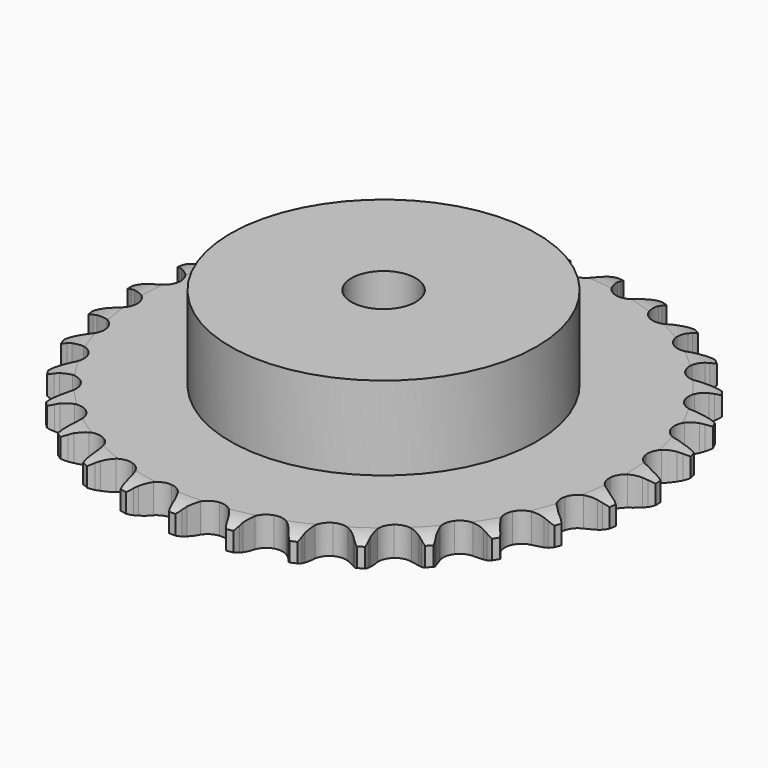
from build123d import *

# Parameters (mm, degrees)
PAD_DEPTH         = 9.1
SKETCH001_R       = 47.5
PAD001_DEPTH      = 35
SKETCH002_R       = 10
POCKET_DEPTH      = 0.001
POCKET_DEPTH_BACK = 35.001


with BuildPart() as part:
    # Sprocket → Pad (new body)
    with BuildSketch(Plane.XY):
        with BuildLine():
            ThreePointArc((-8.441553, 83.012563), (-7.253766, 81.595871), (-6.410038, 79.950886))
            Line((-6.410038, 79.950886), (-5.914495, 78.642367))
            ThreePointArc((-5.914495, 78.642367), (-5.128769, 76.941144), (-4.111265, 75.367546))
            ThreePointArc((-4.111265, 75.367546), (-2.29761, 73.856552), (0, 73.314854))
            ThreePointArc((0, 73.314854), (2.29761, 73.856552), (4.111265, 75.367546))
            ThreePointArc((4.111265, 75.367546), (5.128769, 76.941144), (5.914495, 78.642367))
            Line((5.914495, 78.642367), (6.410038, 79.950886))
            ThreePointArc((6.410038, 79.950886), (7.253766, 81.595871), (8.441553, 83.012563))
            ThreePointArc((8.441553, 83.012563), (9.319847, 81.385771), (9.815171, 79.604618))
            Line((9.815171, 79.604618), (10.037167, 78.223133))
            ThreePointArc((10.037167, 78.223133), (10.464356, 76.398568), (11.144269, 74.652359))
            ThreePointArc((11.144269, 74.652359), (12.616637, 72.807209), (14.758172, 71.814094))
            ThreePointArc((14.758172, 71.814094), (17.117792, 71.882198), (19.198482, 72.997176))
            Line((19.198482, 72.997176), (21.624017, 75.841974))
            ThreePointArc((21.624017, 75.841974), (21.982831, 76.44284), (22.372819, 77.023955))
            ThreePointArc((22.372819, 77.023955), (23.530409, 78.465426), (24.97906, 79.614019))
            ThreePointArc((24.97906, 79.614019), (25.511905, 77.843728), (25.638545, 75.999327))
            Line((25.638545, 75.999327), (25.577906, 74.601434))
            ThreePointArc((25.577906, 74.601434), (25.629069, 72.728225), (25.943554, 70.880896))
            ThreePointArc((25.943554, 70.880896), (27.014357, 68.777131), (28.912142, 67.373258))
            ThreePointArc((28.912142, 67.373258), (31.23717, 66.964979), (33.499712, 67.638294))
            Line((33.499712, 67.638294), (36.44825, 69.936602))
            ThreePointArc((36.44825, 69.936602), (36.920671, 70.452939), (37.419655, 70.943655))
            ThreePointArc((37.419655, 70.943655), (38.843714, 72.122598), (40.493921, 72.956068))
            ThreePointArc((40.493921, 72.956068), (40.659502, 71.114754), (40.412275, 69.282615))
            Line((40.412275, 69.282615), (40.071483, 67.925543))
            ThreePointArc((40.071483, 67.925543), (39.744524, 66.080381), (39.680708, 64.207561))
            ThreePointArc((39.680708, 64.207561), (40.306106, 61.931309), (41.882446, 60.174152))
            ThreePointArc((41.882446, 60.174152), (44.077695, 59.306206), (46.429459, 59.510291))
            Line((46.429459, 59.510291), (49.780286, 61.168017))
            ThreePointArc((49.780286, 61.168017), (50.346975, 61.578687), (50.934525, 61.958913))
            ThreePointArc((50.934525, 61.958913), (52.566754, 62.827062), (54.350956, 63.311286))
            ThreePointArc((54.350956, 63.311286), (54.142494, 61.474333), (53.531521, 59.729465))
            Line((53.531521, 59.729465), (52.924529, 58.468773))
            ThreePointArc((52.924529, 58.468773), (52.232834, 56.727198), (51.793328, 54.905561))
            ThreePointArc((51.793328, 54.905561), (51.947719, 52.550012), (53.138077, 50.511509))
            ThreePointArc((53.138077, 50.511509), (55.113673, 49.21943), (57.458379, 48.945931))
            Line((57.458379, 48.945931), (61.074312, 49.895206))
            ThreePointArc((61.074312, 49.895206), (61.712068, 50.183396), (62.36413, 50.437566))
            ThreePointArc((62.36413, 50.437566), (64.137704, 50.959379), (65.982857, 51.074533))
            ThreePointArc((65.982857, 51.074533), (65.408886, 49.317146), (64.459181, 47.730983))
            Line((64.459181, 47.730983), (63.610838, 46.618284))
            ThreePointArc((63.610838, 46.618284), (62.582726, 45.051596), (61.785524, 43.35572))
            ThreePointArc((61.785524, 43.35572), (61.462586, 41.017311), (62.21823, 38.780919))
            ThreePointArc((62.21823, 38.780919), (63.893291, 37.117605), (66.134946, 36.377718))
            Line((66.134946, 36.377718), (69.867949, 36.579679))
            ThreePointArc((69.867949, 36.579679), (70.550662, 36.733591), (71.24054, 36.851299))
            ThreePointArc((71.24054, 36.851299), (73.082849, 37.005412), (74.913412, 36.746783))
            ThreePointArc((74.913412, 36.746783), (73.997431, 35.140909), (72.747874, 33.77839))
            Line((72.747874, 33.77839), (71.692912, 32.859238))
            ThreePointArc((71.692912, 32.859238), (70.370474, 31.531577), (69.248213, 30.030892))
            ThreePointArc((69.248213, 30.030892), (68.461167, 27.805357), (68.75116, 25.462634))
            ThreePointArc((68.75116, 25.462634), (70.057111, 23.49618), (72.10394, 22.320197))
            Line((72.10394, 22.320197), (75.801183, 21.766577))
            ThreePointArc((75.801183, 21.766577), (76.500903, 21.779908), (77.200354, 21.756336))
            ThreePointArc((77.200354, 21.756336), (79.035973, 21.53644), (80.777003, 20.914615))
            ThreePointArc((80.777003, 20.914615), (79.556512, 19.525999), (78.05826, 18.442905))
            Line((78.05826, 18.442905), (76.83987, 17.75493))
            ThreePointArc((76.83987, 17.75493), (75.277246, 16.720652), (73.875872, 15.476595))
            ThreePointArc((73.875872, 15.476595), (72.65694, 13.455048), (72.469411, 11.101905))
            ThreePointArc((72.469411, 11.101905), (73.352784, 8.912819), (75.120991, 7.348885))
            Line((75.120991, 7.348885), (78.631108, 6.062348))
            ThreePointArc((78.631108, 6.062348), (79.319189, 5.934554), (79.999576, 5.770665))
            ThreePointArc((79.999576, 5.770665), (81.753356, 5.185764), (83.333575, 4.226201))
            ThreePointArc((83.333575, 4.226201), (81.858541, 3.111693), (80.172933, 2.352365))
            Line((80.172933, 2.352365), (78.840995, 1.923734))
            ThreePointArc((78.840995, 1.923734), (77.102159, 1.225181), (75.479044, 0.288684))
            ThreePointArc((75.479044, 0.288684), (73.878129, -1.446112), (73.220755, -3.713336))
            ThreePointArc((73.220755, -3.713336), (73.645385, -6.035434), (75.06258, -7.923291))
            Line((75.06258, -7.923291), (78.241866, -9.890075))
            ThreePointArc((78.241866, -9.890075), (78.890137, -10.153762), (79.523606, -10.451257))
            ThreePointArc((79.523606, -10.451257), (81.123746, -11.377219), (82.478459, -12.635235))
            ThreePointArc((82.478459, -12.635235), (80.809271, -13.430007), (79.005316, -13.834481))
            Line((79.005316, -13.834481), (77.61436, -13.986221))
            ThreePointArc((77.61436, -13.986221), (75.7705, -14.320449), (73.992095, -14.911045))
            ThreePointArc((73.992095, -14.911045), (72.07474, -16.288068), (70.974432, -18.376554))
            ThreePointArc((70.974432, -18.376554), (70.922936, -20.736595), (71.931098, -22.871087))
            Line((71.931098, -22.871087), (74.649393, -25.437596))
            ThreePointArc((74.649393, -25.437596), (75.231314, -25.826382), (75.791931, -26.245303))
            ThreePointArc((75.791931, -26.245303), (77.172921, -27.474417), (78.246666, -28.979383))
            ThreePointArc((78.246666, -28.979383), (76.45166, -29.42188), (74.603212, -29.454941))
            Line((74.603212, -29.454941), (73.210183, -29.323578))
            ThreePointArc((73.210183, -29.323578), (71.336788, -29.279798), (69.475902, -29.500314))
            ThreePointArc((69.475902, -29.500314), (67.320601, -30.463189), (65.822409, -32.287433))
            ThreePointArc((65.822409, -32.287433), (65.296894, -34.588798), (65.854748, -36.882538))
            Line((65.854748, -36.882538), (68.000765, -39.943699))
            ThreePointArc((68.000765, -39.943699), (68.492512, -40.441667), (68.957325, -40.964864))
            ThreePointArc((68.957325, -40.964864), (70.062627, -42.446808), (70.811446, -44.137111))
            ThreePointArc((70.811446, -44.137111), (68.964109, -44.209219), (67.146843, -43.869513))
            Line((67.146843, -43.869513), (65.808774, -43.460424))
            ThreePointArc((65.808774, -43.460424), (63.98254, -43.040429), (62.115356, -42.881837))
            ThreePointArc((62.115356, -42.881837), (59.81035, -43.391143), (57.975608, -44.876461))
            ThreePointArc((57.975608, -44.876461), (56.997589, -47.024931), (57.082297, -49.384014))
            Line((57.082297, -49.384014), (58.568178, -52.814503))
            ThreePointArc((58.568178, -52.814503), (58.949619, -53.401265), (59.299598, -54.007318))
            ThreePointArc((59.299598, -54.007318), (60.083962, -55.681423), (60.477196, -57.487861))
            ThreePointArc((60.477196, -57.487861), (58.653159, -57.186626), (56.941475, -56.488062))
            Line((56.941475, -56.488062), (55.713145, -55.817995))
            ThreePointArc((55.713145, -55.817995), (54.008839, -55.038979), (52.211801, -54.507773))
            ThreePointArc((52.211801, -54.507773), (49.851455, -54.542659), (47.755278, -55.628241))
            ThreePointArc((47.755278, -55.628241), (46.364795, -57.535858), (45.97289, -59.863702))
            Line((45.97289, -59.863702), (46.737803, -63.523074))
            ThreePointArc((46.737803, -63.523074), (46.993321, -64.174609), (47.214139, -64.838706))
            ThreePointArc((47.214139, -64.838706), (47.645451, -66.636434), (47.667003, -68.485052))
            ThreePointArc((47.667003, -68.485052), (45.940942, -67.822807), (44.404917, -66.793982))
            Line((44.404917, -66.793982), (43.336614, -65.890371))
            ThreePointArc((43.336614, -65.890371), (41.82401, -64.784228), (40.170688, -63.902154))
            ThreePointArc((40.170688, -63.902154), (37.851637, -63.461192), (35.579842, -64.102594))
            ThreePointArc((35.579842, -64.102594), (33.833822, -65.691261), (32.981347, -67.892563))
            Line((32.981347, -67.892563), (32.993976, -71.631004))
            ThreePointArc((32.993976, -71.631004), (33.113111, -72.320637), (33.195727, -73.015591))
            ThreePointArc((33.195727, -73.015591), (33.256331, -74.863341), (32.905317, -76.678456))
            ThreePointArc((32.905317, -76.678456), (31.347898, -75.682314), (30.050416, -74.36535))
            Line((30.050416, -74.36535), (29.185877, -73.265188))
            ThreePointArc((29.185877, -73.265188), (27.926901, -71.877202), (26.484983, -70.680373))
            ThreePointArc((26.484983, -70.680373), (24.302168, -69.781616), (21.947764, -69.95258))
            ThreePointArc((21.947764, -69.95258), (19.917688, -71.157255), (18.639545, -73.141895))
            Line((18.639545, -73.141895), (17.899372, -76.806352))
            ThreePointArc((17.899372, -76.806352), (17.877247, -77.505849), (17.818278, -78.203208))
            ThreePointArc((17.818278, -78.203208), (17.505692, -80.025334), (16.796483, -81.732635))
            ThreePointArc((16.796483, -81.732635), (15.471467, -80.443378), (14.465647, -78.892191))
            Line((14.465647, -78.892191), (13.840266, -77.640519))
            ThreePointArc((13.840266, -77.640519), (12.886461, -76.027515), (11.714979, -74.564929))
            ThreePointArc((11.714979, -74.564929), (9.757765, -73.245172), (7.417141, -72.938699))
            ThreePointArc((7.417141, -72.938699), (5.186122, -73.710063), (3.534637, -75.396789))
            Line((3.534637, -75.396789), (2.071966, -78.837238))
            ThreePointArc((2.071966, -78.837238), (1.909486, -79.517963), (1.711347, -80.189177))
            ThreePointArc((1.711347, -80.189177), (1.038368, -81.91108), (0, -83.44067))
            ThreePointArc((0, -83.44067), (-1.038368, -81.91108), (-1.711347, -80.189177))
            Line((-1.711347, -80.189177), (-2.071966, -78.837238))
            ThreePointArc((-2.071966, -78.837238), (-2.681552, -77.065253), (-3.534637, -75.396789))
            ThreePointArc((-3.534637, -75.396789), (-5.186122, -73.710063), (-7.417141, -72.938699))
            ThreePointArc((-7.417141, -72.938699), (-9.757765, -73.245172), (-11.714979, -74.564929))
            Line((-11.714979, -74.564929), (-13.840266, -77.640519))
            ThreePointArc((-13.840266, -77.640519), (-14.13645, -78.274602), (-14.465647, -78.892191))
            ThreePointArc((-14.465647, -78.892191), (-15.471467, -80.443378), (-16.796483, -81.732635))
            ThreePointArc((-16.796483, -81.732635), (-17.505692, -80.025334), (-17.818278, -78.203208))
            Line((-17.818278, -78.203208), (-17.899372, -76.806352))
            ThreePointArc((-17.899372, -76.806352), (-18.139782, -74.94793), (-18.639545, -73.141895))
            ThreePointArc((-18.639545, -73.141895), (-19.917688, -71.157255), (-21.947764, -69.95258))
            ThreePointArc((-21.947764, -69.95258), (-24.302168, -69.781616), (-26.484983, -70.680373))
            Line((-26.484983, -70.680373), (-29.185877, -73.265188))
            ThreePointArc((-29.185877, -73.265188), (-29.603638, -73.82667), (-30.050416, -74.36535))
            ThreePointArc((-30.050416, -74.36535), (-31.347898, -75.682314), (-32.905317, -76.678456))
            ThreePointArc((-32.905317, -76.678456), (-33.256331, -74.863341), (-33.195727, -73.015591))
            Line((-33.195727, -73.015591), (-32.993976, -71.631004))
            ThreePointArc((-32.993976, -71.631004), (-32.855367, -69.76223), (-32.981347, -67.892563))
            ThreePointArc((-32.981347, -67.892563), (-33.833822, -65.691261), (-35.579842, -64.102594))
            ThreePointArc((-35.579842, -64.102594), (-37.851637, -63.461192), (-40.170688, -63.902154))
            Line((-40.170688, -63.902154), (-43.336614, -65.890371))
            ThreePointArc((-43.336614, -65.890371), (-43.858849, -66.356266), (-44.404917, -66.793982))
            ThreePointArc((-44.404917, -66.793982), (-45.940942, -67.822807), (-47.667003, -68.485052))
            ThreePointArc((-47.667003, -68.485052), (-47.645451, -66.636434), (-47.214139, -64.838706))
            Line((-47.214139, -64.838706), (-46.737803, -63.523074))
            ThreePointArc((-46.737803, -63.523074), (-46.225849, -61.720457), (-45.97289, -59.863702))
            ThreePointArc((-45.97289, -59.863702), (-46.364795, -57.535858), (-47.755278, -55.628241))
            ThreePointArc((-47.755278, -55.628241), (-49.851455, -54.542659), (-52.211801, -54.507773))
            Line((-52.211801, -54.507773), (-55.713145, -55.817995))
            ThreePointArc((-55.713145, -55.817995), (-56.318474, -56.169228), (-56.941475, -56.488062))
            ThreePointArc((-56.941475, -56.488062), (-58.653159, -57.186626), (-60.477196, -57.487861))
            ThreePointArc((-60.477196, -57.487861), (-60.083962, -55.681423), (-59.299598, -54.007318))
            Line((-59.299598, -54.007318), (-58.568178, -52.814503))
            ThreePointArc((-58.568178, -52.814503), (-57.70384, -51.15184), (-57.082297, -49.384014))
            ThreePointArc((-57.082297, -49.384014), (-56.997589, -47.024931), (-57.975608, -44.876461))
            ThreePointArc((-57.975608, -44.876461), (-59.81035, -43.391143), (-62.115356, -42.881837))
            Line((-62.115356, -42.881837), (-65.808774, -43.460424))
            ThreePointArc((-65.808774, -43.460424), (-66.472414, -43.682615), (-67.146843, -43.869513))
            ThreePointArc((-67.146843, -43.869513), (-68.964109, -44.209219), (-70.811446, -44.137111))
            ThreePointArc((-70.811446, -44.137111), (-70.062627, -42.446808), (-68.957325, -40.964864))
            Line((-68.957325, -40.964864), (-68.000765, -39.943699))
            ThreePointArc((-68.000765, -39.943699), (-66.819429, -38.489062), (-65.854748, -36.882538))
            ThreePointArc((-65.854748, -36.882538), (-65.296894, -34.588798), (-65.822409, -32.287433))
            ThreePointArc((-65.822409, -32.287433), (-67.320601, -30.463189), (-69.475902, -29.500314))
            Line((-69.475902, -29.500314), (-73.210183, -29.323578))
            ThreePointArc((-73.210183, -29.323578), (-73.904965, -29.407631), (-74.603212, -29.454941))
            ThreePointArc((-74.603212, -29.454941), (-76.45166, -29.42188), (-78.246666, -28.979383))
            ThreePointArc((-78.246666, -28.979383), (-77.172921, -27.474417), (-75.791931, -26.245303))
            Line((-75.791931, -26.245303), (-74.649393, -25.437596))
            ThreePointArc((-74.649393, -25.437596), (-73.199422, -24.250536), (-71.931098, -22.871087))
            ThreePointArc((-71.931098, -22.871087), (-70.922936, -20.736595), (-70.974432, -18.376554))
            ThreePointArc((-70.974432, -18.376554), (-72.07474, -16.288068), (-73.992095, -14.911045))
            Line((-73.992095, -14.911045), (-77.61436, -13.986221))
            ThreePointArc((-77.61436, -13.986221), (-78.311839, -13.928695), (-79.005316, -13.834481))
            ThreePointArc((-79.005316, -13.834481), (-80.809271, -13.430007), (-82.478459, -12.635235))
            ThreePointArc((-82.478459, -12.635235), (-81.123746, -11.377219), (-79.523606, -10.451257))
            Line((-79.523606, -10.451257), (-78.241866, -9.890075))
            ThreePointArc((-78.241866, -9.890075), (-76.582623, -9.019191), (-75.06258, -7.923291))
            ThreePointArc((-75.06258, -7.923291), (-73.645385, -6.035434), (-73.220755, -3.713336))
            ThreePointArc((-73.220755, -3.713336), (-73.878129, -1.446112), (-75.479044, 0.288684))
            Line((-75.479044, 0.288684), (-78.840995, 1.923734))
            ThreePointArc((-78.840995, 1.923734), (-79.512616, 2.120484), (-80.172933, 2.352365))
            ThreePointArc((-80.172933, 2.352365), (-81.858541, 3.111693), (-83.333575, 4.226201))
            ThreePointArc((-83.333575, 4.226201), (-81.753356, 5.185764), (-79.999576, 5.770665))
            Line((-79.999576, 5.770665), (-78.631108, 6.062348))
            ThreePointArc((-78.631108, 6.062348), (-76.830522, 6.581401), (-75.120991, 7.348885))
            ThreePointArc((-75.120991, 7.348885), (-73.352784, 8.912819), (-72.469411, 11.101905))
            ThreePointArc((-72.469411, 11.101905), (-72.65694, 13.455048), (-73.875872, 15.476595))
            Line((-73.875872, 15.476595), (-76.83987, 17.75493))
            ThreePointArc((-76.83987, 17.75493), (-77.458138, 18.082849), (-78.05826, 18.442905))
            ThreePointArc((-78.05826, 18.442905), (-79.556512, 19.525999), (-80.777003, 20.914615))
            ThreePointArc((-80.777003, 20.914615), (-79.035973, 21.53644), (-77.200354, 21.756336))
            Line((-77.200354, 21.756336), (-75.801183, 21.766577))
            ThreePointArc((-75.801183, 21.766577), (-73.93297, 21.91255), (-72.10394, 22.320197))
            ThreePointArc((-72.10394, 22.320197), (-70.057111, 23.49618), (-68.75116, 25.462634))
            ThreePointArc((-68.75116, 25.462634), (-68.461167, 27.805357), (-69.248213, 30.030892))
            Line((-69.248213, 30.030892), (-71.692912, 32.859238))
            ThreePointArc((-71.692912, 32.859238), (-72.232515, 33.304901), (-72.747874, 33.77839))
            ThreePointArc((-72.747874, 33.77839), (-73.997431, 35.140909), (-74.913412, 36.746783))
            ThreePointArc((-74.913412, 36.746783), (-73.082849, 37.005412), (-71.24054, 36.851299))
            Line((-71.24054, 36.851299), (-69.867949, 36.579679))
            ThreePointArc((-69.867949, 36.579679), (-68.008594, 36.346596), (-66.134946, 36.377718))
            ThreePointArc((-66.134946, 36.377718), (-63.893291, 37.117605), (-62.21823, 38.780919))
            ThreePointArc((-62.21823, 38.780919), (-61.462586, 41.017311), (-61.785524, 43.35572))
            Line((-61.785524, 43.35572), (-63.610838, 46.618284))
            ThreePointArc((-63.610838, 46.618284), (-64.049684, 47.163446), (-64.459181, 47.730983))
            ThreePointArc((-64.459181, 47.730983), (-65.408886, 49.317146), (-65.982857, 51.074533))
            ThreePointArc((-65.982857, 51.074533), (-64.137704, 50.959379), (-62.36413, 50.437566))
            Line((-62.36413, 50.437566), (-61.074312, 49.895206))
            ThreePointArc((-61.074312, 49.895206), (-59.299938, 49.292609), (-57.458379, 48.945931))
            ThreePointArc((-57.458379, 48.945931), (-55.113673, 49.21943), (-53.138077, 50.511509))
            ThreePointArc((-53.138077, 50.511509), (-51.947719, 52.550012), (-51.793328, 54.905561))
            Line((-51.793328, 54.905561), (-52.924529, 58.468773))
            ThreePointArc((-52.924529, 58.468773), (-53.244651, 59.091114), (-53.531521, 59.729465))
            ThreePointArc((-53.531521, 59.729465), (-54.142494, 61.474333), (-54.350956, 63.311286))
            ThreePointArc((-54.350956, 63.311286), (-52.566754, 62.827062), (-50.934525, 61.958913))
            Line((-50.934525, 61.958913), (-49.780286, 61.168017))
            ThreePointArc((-49.780286, 61.168017), (-48.163536, 60.220576), (-46.429459, 59.510291))
            ThreePointArc((-46.429459, 59.510291), (-44.077695, 59.306206), (-41.882446, 60.174152))
            ThreePointArc((-41.882446, 60.174152), (-40.306106, 61.931309), (-39.680708, 64.207561))
            Line((-39.680708, 64.207561), (-40.071483, 67.925543))
            ThreePointArc((-40.071483, 67.925543), (-40.259776, 68.599585), (-40.412275, 69.282615))
            ThreePointArc((-40.412275, 69.282615), (-40.659502, 71.114754), (-40.493921, 72.956068))
            ThreePointArc((-40.493921, 72.956068), (-38.843714, 72.122598), (-37.419655, 70.943655))
            Line((-37.419655, 70.943655), (-36.44825, 69.936602))
            ThreePointArc((-36.44825, 69.936602), (-35.055313, 68.683106), (-33.499712, 67.638294))
            ThreePointArc((-33.499712, 67.638294), (-31.23717, 66.964979), (-28.912142, 67.373258))
            ThreePointArc((-28.912142, 67.373258), (-27.014357, 68.777131), (-25.943554, 70.880896))
            Line((-25.943554, 70.880896), (-25.577906, 74.601434))
            ThreePointArc((-25.577906, 74.601434), (-25.626661, 75.299581), (-25.638545, 75.999327))
            ThreePointArc((-25.638545, 75.999327), (-25.511905, 77.843728), (-24.97906, 79.614019))
            ThreePointArc((-24.97906, 79.614019), (-23.530409, 78.465426), (-22.372819, 77.023955))
            Line((-22.372819, 77.023955), (-21.624017, 75.841974))
            ThreePointArc((-21.624017, 75.841974), (-20.511921, 74.333741), (-19.198482, 72.997176))
            ThreePointArc((-19.198482, 72.997176), (-17.117792, 71.882198), (-14.758172, 71.814094))
            ThreePointArc((-14.758172, 71.814094), (-12.616637, 72.807209), (-11.144269, 74.652359))
            Line((-11.144269, 74.652359), (-10.037167, 78.223133))
            ThreePointArc((-10.037167, 78.223133), (-9.944388, 78.916803), (-9.815171, 79.604618))
            ThreePointArc((-9.815171, 79.604618), (-9.319847, 81.385771), (-8.441553, 83.012563))
        make_face()
    extrude(amount=PAD_DEPTH)

    # Sketch → Groove (revolve, cut)
    with BuildSketch(Plane.XZ):
        with BuildLine():
            Line((74.975762, 0), (81.95, 0))
            Line((88.924238, 0), (81.95, 0))
            Line((88.924238, 9.1), (88.924238, 0))
            Line((81.95, 9.1), (88.924238, 9.1))
            Line((74.975762, 9.1), (81.95, 9.1))
            ThreePointArc((81.95, 7.5), (78.55347, 8.694871), (74.975762, 9.1))
            Line((81.95, 1.6), (81.95, 7.5))
            ThreePointArc((74.975762, 0), (78.55347, 0.405129), (81.95, 1.6))
        make_face()
    revolve(axis=Axis((0, 0, 0), (0, 0, 1)), mode=Mode.SUBTRACT)

    # Sketch001 → Pad001 (join)
    with BuildSketch(Plane.XY):
        Circle(SKETCH001_R)
    extrude(amount=PAD001_DEPTH)

    # Sketch002 → Pocket (cut, two sides)
    with BuildSketch(Plane.XY) as pocket_sk:
        Circle(SKETCH002_R)
    extrude(amount=-POCKET_DEPTH, mode=Mode.SUBTRACT)
    extrude(pocket_sk.sketch, amount=POCKET_DEPTH_BACK, mode=Mode.SUBTRACT)


solid = part.part
